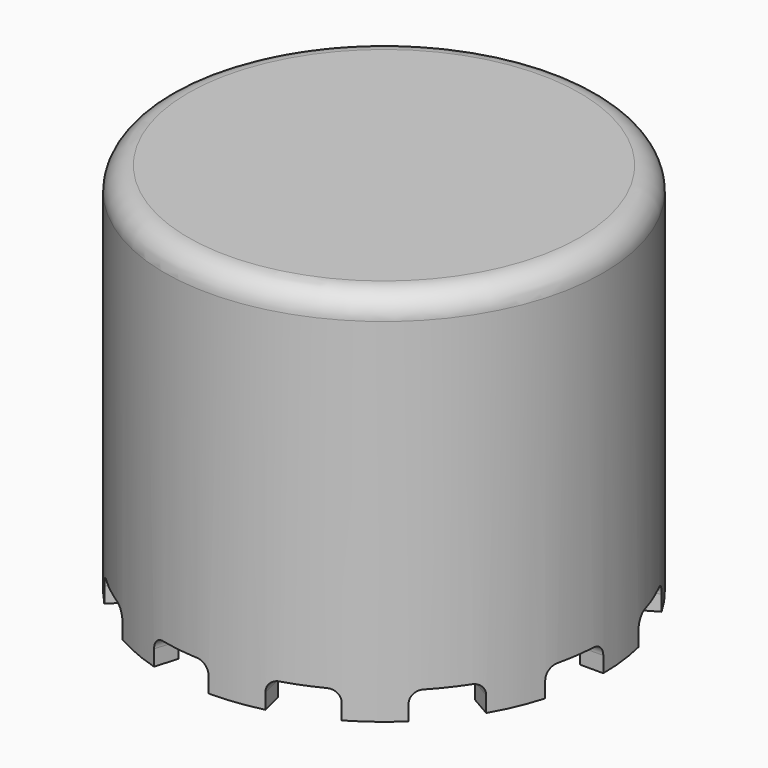
from build123d import *

# Parameters (mm, degrees)
PAD001_DEPTH   = 0.6
ARRAY001_COUNT = 3
PAD_DEPTH      = 3.5
FILLET_R       = 1.5
ARRAY_COUNT    = 12
CYLINDER_R     = 25
CYLINDER_DEPTH = 45
THICKNESS_T    = 3
FILLET001_R    = 2


with BuildPart() as array001:
    # Sketch002 → Pad001 (new body, symmetric)
    with BuildSketch(Plane(origin=(0, 0, 0), x_dir=(0.992546, 0.121869, 0), z_dir=(0.121869, -0.992546, 0))):
        with BuildLine():
            ThreePointArc((25.25, 31), (20, 16), (25.25, 1))
            Line((25.25, 5.5), (25.25, 1))
            ThreePointArc((25.25, 26.5), (21.2, 16), (25.25, 5.5))
            Line((25.25, 31), (25.25, 26.5))
        make_face()
    extrude(amount=PAD001_DEPTH, both=True)

    # Array001: Array001 ×3 about axis
    array001_axis = Axis((0, 0, 0), (0, 0, 1))


with BuildPart() as array001_1:
    add(array001.part)
    for i in range(1, ARRAY001_COUNT):
        add(array001.part.rotate(array001_axis, i * 360 / ARRAY001_COUNT))


with BuildPart() as array:
    # Sketch → Pad (new body)
    with BuildSketch(Plane.XY):
        with BuildLine():
            ThreePointArc((6.877193, 23.514979), (3.473689, 24.252494), (0, 24.5))
            Line((0, 28.5), (0, 24.5))
            ThreePointArc((8, 27.354159), (4.040821, 28.212085), (0, 28.5))
            Line((8, 27.354159), (6.877193, 23.514979))
        make_face()
    extrude(amount=PAD_DEPTH)

    # Fillet
    fillet_edges = [array.edges().sort_by_distance(p)[0] for p in [
        (0, 26.5, 3.5),
        (7.438596, 25.434569, 3.5),
    ]]
    fillet(fillet_edges, radius=FILLET_R)

    # Array: Array ×12 about axis
    array_axis = Axis((0, 0, 0), (0, 0, 1))


with BuildPart() as array_1:
    add(array.part)
    for i in range(1, ARRAY_COUNT):
        add(array.part.rotate(array_axis, i * 360 / ARRAY_COUNT))


with BuildPart() as fillet001:
    # Cylinder → Cylinder (new body)
    with BuildSketch(Plane.XY):
        Circle(CYLINDER_R)
    extrude(amount=CYLINDER_DEPTH)

    # Thickness
    thickness_openings = [fillet001.faces().sort_by_distance(p)[0] for p in [
        (0, 0, 0),
    ]]
    offset(amount=THICKNESS_T, openings=thickness_openings)

    # Cut: cut Array
    add(array_1.part, mode=Mode.SUBTRACT)

    # Fusion: union Array001
    add(array001_1.part)

    # Fillet001
    fillet001_edges = [fillet001.edges().sort_by_distance(p)[0] for p in [
        (-25, 0, 45),
    ]]
    fillet(fillet001_edges, radius=FILLET001_R)


solid = fillet001.part
